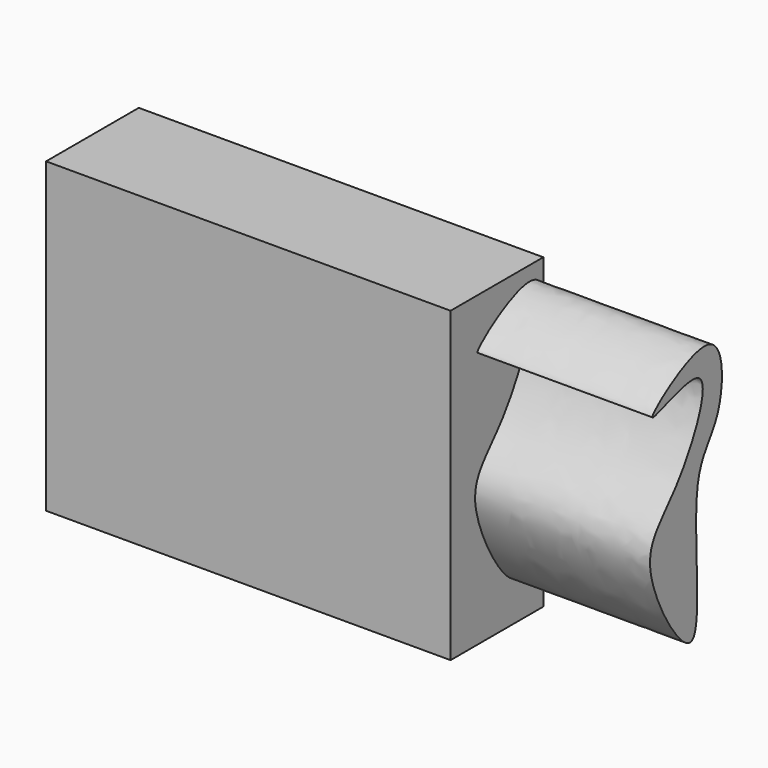
from build123d import *

# Parameters (mm, degrees)
F0_W     = 88.6597298086
F0_H     = 67.428573966
F1_DEPTH = 25.4
F3_DEPTH = 127


with BuildPart() as f1:
    # F0 (on Front) → F1 (new body)
    with BuildSketch(Plane.XZ):
        with Locations((-9.3377772719, 17.7909210324)):
            Rectangle(F0_W, F0_H)
    extrude(amount=F1_DEPTH)

    # F2 (on face) → F3 (join)
    with BuildSketch(Plane(origin=(-53.6676421762, 0, 0), x_dir=(0, -1, 0), z_dir=(-1, 0, 0))):
        with BuildLine():
            add(Edge.make_bspline(
                [(18.0077906698, 40.3981693089), (17.5275628435, 39.6738812115), (-1.8943396449, 49.7384087408), (10.6212709767, 21.9993236708), (24.2029526814, 14.8141223278), (1.4540288811, -22.5986960954), (9.1583358161, 26.298530403), (-1.5619440238, 31.0916796893), (-1.8304759487, 56.4843370144), (18.5655335557, 41.2393669897), (18.0077906698, 40.3981693089)],
                knots=[0, 0, 0, 0, 0.1062385318, 0.2346377437, 0.3538562156, 0.4927382808, 0.6551136955, 0.763838332, 0.876613178, 1, 1, 1, 1], degree=3))
        make_face()
    extrude(amount=-F3_DEPTH)


solid = f1.part
